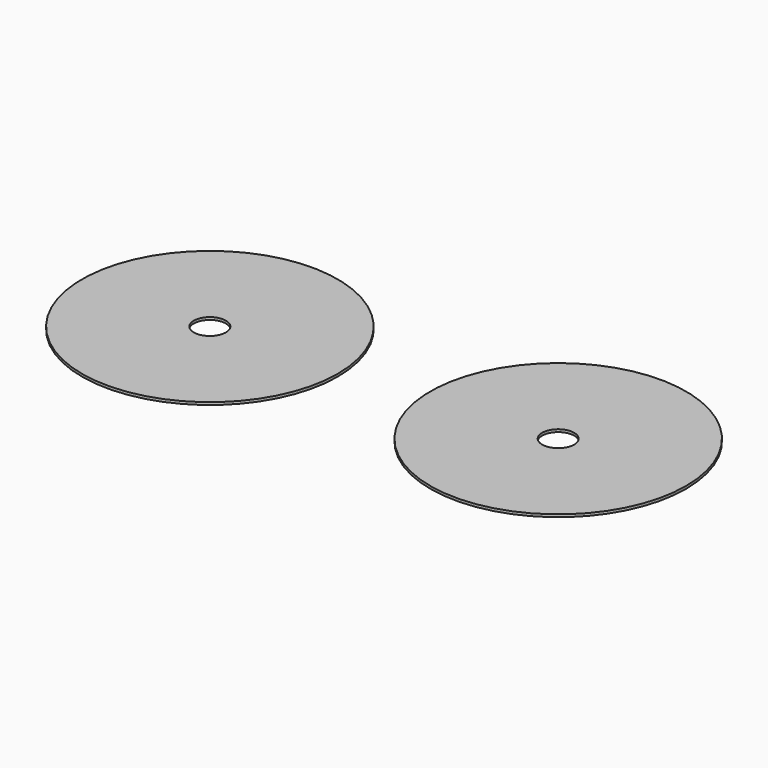
from build123d import *

# Parameters (mm, degrees)
F0_R     = 60
F1_DEPTH = 1.1938
F2_D     = 15.0114
F2_2_D   = 15.0114


with BuildPart() as f1:
    # F0 (on Top) → F1 (new body)
    with BuildSketch(Plane.XY):
        with Locations((-74.4707694169, 18.8653067038)):
            Circle(F0_R)
    extrude(amount=F1_DEPTH)

    # F2 (through all)
    with Locations(Plane(origin=(0, 0, 0), x_dir=(1, 0, 0), z_dir=(0, 0, -1))):
        with Locations((-74.4707694169, -18.8653067038), (80.7149765843, -29.097335006)):
            Hole(F2_D / 2)


with BuildPart() as f1b:
    # F0 (on Top) → F1, piece 2 (new body)
    with BuildSketch(Plane.XY):
        with Locations((80.7149765843, 29.097335006)):
            Circle(F0_R)
    extrude(amount=F1_DEPTH)

    # F2#2 (through all)
    with Locations(Plane(origin=(0, 0, 0), x_dir=(1, 0, 0), z_dir=(0, 0, -1))):
        with Locations((-74.4707694169, -18.8653067038), (80.7149765843, -29.097335006)):
            Hole(F2_2_D / 2)


solid = Compound([f1.part, f1b.part])
